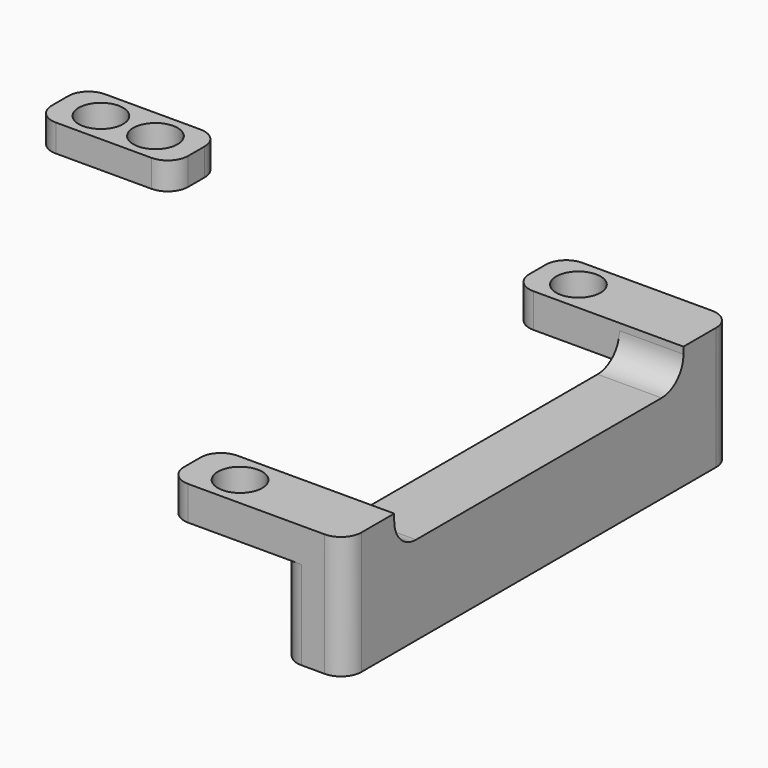
from build123d import *

# Parameters (mm, degrees)
F0_W      = 20
F0_H      = 9
F1_DEPTH  = 4
F3_D      = 6.5
F4_R      = 3
F6_DEPTH  = 5
F7_W      = 9.3898265034
F7_H      = 62
F7_H_2    = 9
F8_DEPTH  = 13
F10_R     = 4
F11_R     = 3
F12_D     = 6.5
F14_D     = 6.5
F14_DEPTH = 3
F14_TIP   = 1.9527970118


with BuildPart() as f1:
    # F0 (on Top) → F1 (new body)
    with BuildSketch(Plane.XY):
        with Locations((0, 31)):
            Rectangle(F0_W, F0_H)
    extrude(amount=F1_DEPTH)

    # F3 (through all)
    with Locations(Plane.XY.offset(4)):
        with Locations((-4, 31), (4, 31)):
            Hole(F3_D / 2)

    # F4
    f4_edges = [f1.edges().sort_by_distance(p)[0] for p in [
        (10, 35.5, 2),
        (10, 26.5, 2),
        (-10, 26.5, 2),
        (-10, 35.5, 2),
    ]]
    fillet(f4_edges, radius=F4_R)


with BuildPart() as f6:
    # F5 (on Top) → F6 (new body)
    with BuildSketch(Plane.XY):
        Polygon((60, 35.5), (60, 26.5), (75.6101734966, 26.5), (85, 26.5), (85, 35.5), (75.6101734966, 35.5), align=None)
    extrude(amount=F6_DEPTH)


with BuildPart() as f6b:
    # F5 (on Top) → F6, piece 2 (new body)
    with BuildSketch(Plane.XY):
        Polygon((59, -35.5), (75.6101734966, -35.5), (85, -35.5), (85, -26.5), (75.6101734966, -26.5), (59, -26.5), align=None)
    extrude(amount=F6_DEPTH)


with BuildPart() as f8:
    # F7 (on face) → F8 (new body)
    with BuildSketch(Plane(origin=(0, 0, 0), x_dir=(1, 0, 0), z_dir=(0, 0, -1))):
        with Locations((80.3050867483, -4.5)):
            Rectangle(F7_W, F7_H)
        with Locations((80.3050867483, 31)):
            Rectangle(F7_W, F7_H_2)
    extrude(amount=F8_DEPTH)


with BuildPart() as f6_1:
    add(f6.part)

    # F9: union F6b, F8
    add(f6b.part)
    add(f8.part)

    # F10
    f10_edges = [f6_1.edges().sort_by_distance(p)[0] for p in [
        (80.305087, 26.5, 0),
        (80.305087, -26.5, 0),
    ]]
    fillet(f10_edges, radius=F10_R)

    # F11
    f11_edges = [f6_1.edges().sort_by_distance(p)[0] for p in [
        (60, 26.5, 2.5),
        (60, 35.5, 2.5),
        (85, 35.5, -4),
        (85, -35.5, -4),
        (59, -35.5, 2.5),
        (59, -26.5, 2.5),
        (75.610173, 35.5, -6.5),
        (75.610173, -35.5, -6.5),
    ]]
    fillet(f11_edges, radius=F11_R)

    # F12 (through all)
    with Locations(Plane(origin=(0, 0, 0), x_dir=(1, 0, 0), z_dir=(0, 0, -1))):
        with Locations((66, -31), (66, 31)):
            Hole(F12_D / 2)

    # F14
    with Locations(Plane(origin=(0, 0, -13), x_dir=(1, 0, 0), z_dir=(0, 0, -1))):
        with Locations((80.3050867483, 26.5), (80.3050867483, -26.5)):
            Hole(F14_D / 2, depth=F14_DEPTH)
            with Locations((0, 0, -(F14_DEPTH + F14_TIP / 2))):  # 118° drill point
                Cone(0, F14_D / 2, F14_TIP, mode=Mode.SUBTRACT)


solid = Compound([f1.part, f6_1.part])
